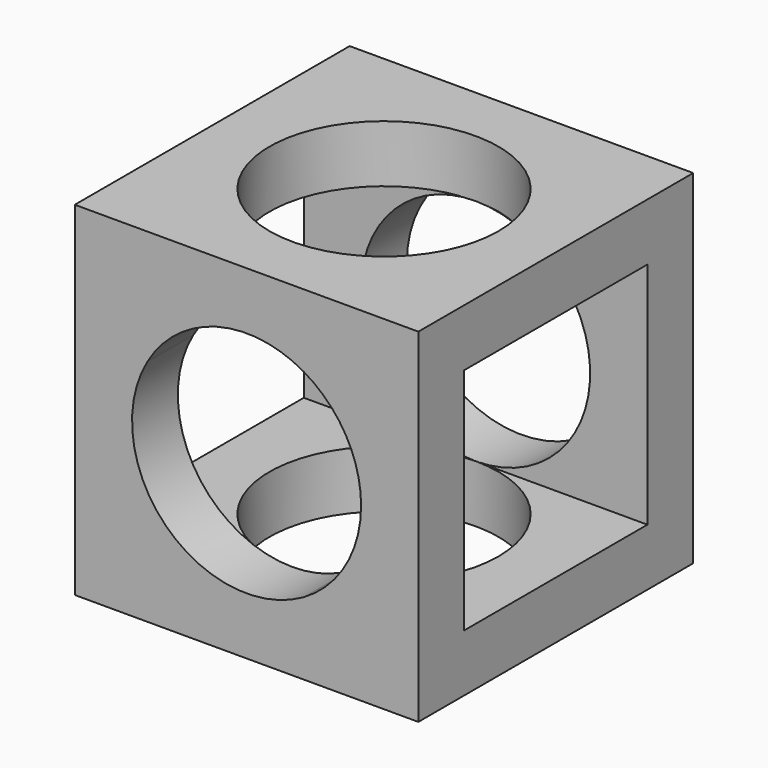
from build123d import *

# Parameters (mm, degrees)
F0_W      = 30
F0_H      = 30
F1_DEPTH  = 30
F2_W      = 20
F2_H      = 20
F3_DEPTH  = 30.001
F5_DEPTH  = 5
F6_R      = 10
F7_DEPTH  = 5
F8_R      = 10
F9_DEPTH  = 5
F10_R     = 10
F11_DEPTH = 5


with BuildPart() as f1:
    # F0 (on Right) → F1 (new body)
    with BuildSketch(Plane.YZ):
        Rectangle(F0_W, F0_H)
    extrude(amount=F1_DEPTH)

    # F2 (on face) → F3 (cut, through all)
    with BuildSketch(Plane.YZ.offset(30)):
        Rectangle(F2_W, F2_H)
    extrude(amount=-F3_DEPTH, mode=Mode.SUBTRACT)

    # F4 (on face) → F5 (cut, through all)
    with BuildSketch(Plane.XZ.offset(15)):
        with BuildLine():
            Line((20, 5), (23.6602540378, 5))
            ThreePointArc((23.6602540378, 5), (22.0710678119, 7.0710678119), (20, 8.6602540378))
            Line((20, 8.6602540378), (20, 5))
        make_face()
        with BuildLine():
            Line((20, 5), (20, 8.6602540378))
            ThreePointArc((20, 8.6602540378), (12.411809549, 9.6592582629), (6.3397459622, 5))
            Line((6.3397459622, 5), (20, 5))
        make_face()
        with BuildLine():
            ThreePointArc((6.3397459622, 5), (7.9289321881, -7.0710678119), (20, -8.6602540378))
            Line((20, -8.6602540378), (20, 5))
            Line((20, 5), (6.3397459622, 5))
        make_face()
        with BuildLine():
            ThreePointArc((20, -8.6602540378), (23.6602540378, -5), (25, 0))
            ThreePointArc((25, 0), (24.6592582629, 2.588190451), (23.6602540378, 5))
            Line((23.6602540378, 5), (20, 5))
            Line((20, 5), (20, -8.6602540378))
        make_face()
    extrude(amount=-F5_DEPTH, mode=Mode.SUBTRACT)

    # F6 (on face) → F7 (cut, through all)
    with BuildSketch(Plane.XY.offset(15)):
        with Locations((15, 0)):
            Circle(F6_R)
    extrude(amount=-F7_DEPTH, mode=Mode.SUBTRACT)

    # F8 (on face) → F9 (cut, through all)
    with BuildSketch(Plane(origin=(0, 15, 0), x_dir=(-1, 0, 0), z_dir=(0, 1, 0))):
        with Locations((-15, 0)):
            Circle(F8_R)
    extrude(amount=-F9_DEPTH, mode=Mode.SUBTRACT)

    # F10 (on face) → F11 (cut, through all)
    with BuildSketch(Plane(origin=(0, 0, -15), x_dir=(1, 0, 0), z_dir=(0, 0, -1))):
        with Locations((15, 0)):
            Circle(F10_R)
    extrude(amount=-F11_DEPTH, mode=Mode.SUBTRACT)


solid = f1.part
